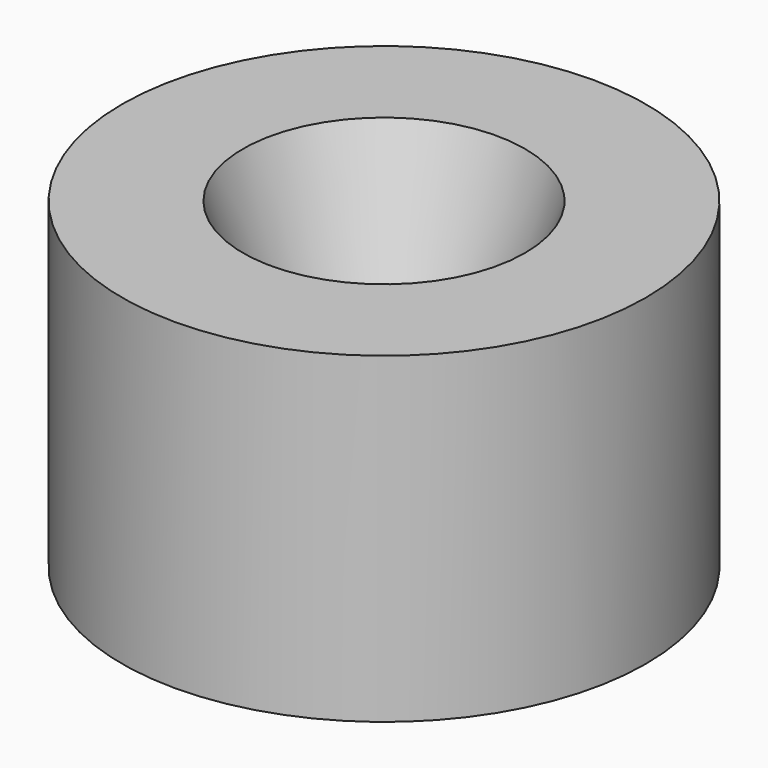
from build123d import *

# Parameters (mm, degrees)
F0_R     = 6.5
F1_DEPTH = 8
F3_R     = 0.75
F2_R     = 3.5


with BuildPart() as f1:
    # F0 (on Top) → F1 (new body)
    with BuildSketch(Plane.XY):
        Circle(F0_R)
    extrude(amount=-F1_DEPTH)

    # F3 (on face) → F4 section 0
    with BuildSketch(Plane(origin=(0, 0, -8), x_dir=(1, 0, 0), z_dir=(0, 0, -1))):
        Circle(F3_R)
    # F2 (on face) → F4 section 1
    with BuildSketch(Plane.XY):
        Circle(F2_R)
    loft(mode=Mode.SUBTRACT)


solid = f1.part
